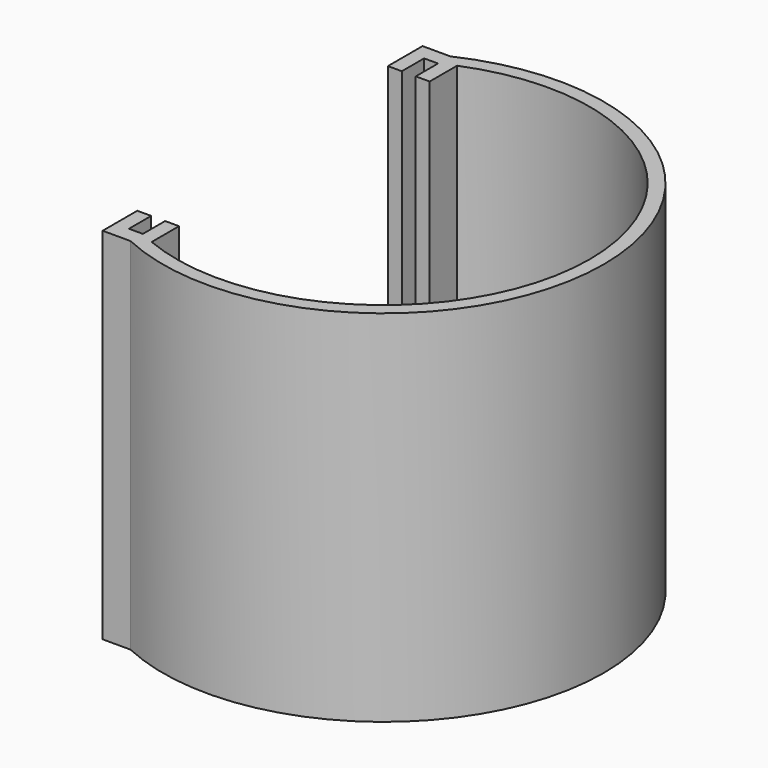
from build123d import *

# Parameters (mm, degrees)
F1_DEPTH = 51.669
F3_DEPTH = 51.669


with BuildPart() as f1:
    # F0 (on Top) → F1 (new body)
    with BuildSketch(Plane.XY):
        with BuildLine():
            ThreePointArc((-13.334302, 26.5), (29.665698, 0), (-13.334302, -26.5))
            Line((-13.334302, -26.5), (-13.334302, -28.721077))
            ThreePointArc((-13.334302, -28.721077), (31.6655, 0), (-13.334302, 28.721077))
            Line((-13.334302, 28.721077), (-13.334302, 26.5))
        make_face()
    extrude(amount=F1_DEPTH)

    # F2 (on face) → F3 (join)
    with BuildSketch(Plane.XY.offset(51.669)):
        Polygon((-15.334302, 26.5), (-13.334302, 26.5), (-13.334302, 28.721077), (-17.334302, 28.721077), (-17.334302, 26.5), (-17.334302, 22.5), (-15.334302, 22.5), align=None)
        with BuildLine():
            Line((-11.334302, 22.5), (-11.334302, 27.415091))
            ThreePointArc((-11.334302, 27.415091), (-12.342786, 26.976087), (-13.334302, 26.5))
            Line((-13.334302, 26.5), (-13.334302, 22.5))
            Line((-13.334302, 22.5), (-11.334302, 22.5))
        make_face()
    extrude(amount=-F3_DEPTH)

    # F4: F1 across plane


with BuildPart() as f1_1:
    add(f1.part)
    add(f1.part.mirror(Plane.XZ))


solid = f1_1.part
